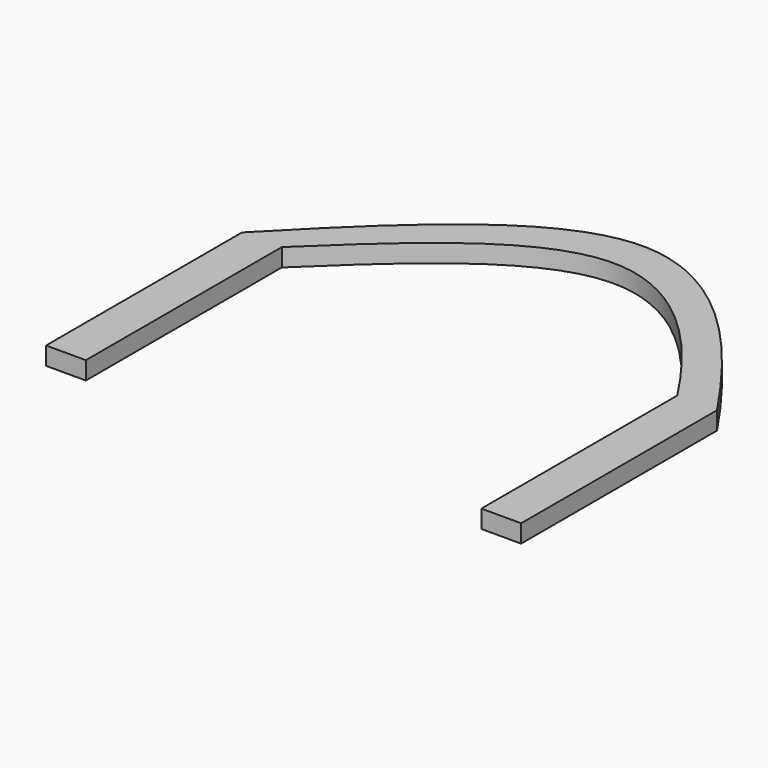
from build123d import *

# Parameters (mm, degrees)
F0_W     = 2.8170784935
F0_H     = 17.335870536
F1_DEPTH = 1.27


with BuildPart() as f1:
    # F0 (on Top) → F1 (new body)
    with BuildSketch(Plane.XY):
        with BuildLine():
            add(Edge.make_bspline(
                [(-18.4055902064, 19.893027842), (-11.9037980306, 26.5804845839), (0.0861304806, 38.1581188782), (10.5268220624, 26.9462221751), (15.3993554413, 19.676329568)],
                knots=[0, 0, 0, 0, 0.5134396008, 1, 1, 1, 1], degree=3))
            Line((-18.4055902064, 19.893027842), (-15.5885117128, 19.893027842))
            add(Edge.make_bspline(
                [(-15.5885117128, 19.893027842), (-10.0181021025, 25.2769867087), (0.0240884908, 34.2570794423), (8.7194553893, 25.6482853161), (12.5822769478, 19.676329568)],
                knots=[0, 0, 0, 0, 0.5167040571, 1, 1, 1, 1], degree=3))
            Line((12.5822769478, 19.676329568), (15.3993554413, 19.676329568))
        make_face()
        with Locations((-16.9970509596, 11.225092574)):
            Rectangle(F0_W, F0_H)
        with Locations((13.9908161946, 11.0083943)):
            Rectangle(F0_W, F0_H)
    extrude(amount=F1_DEPTH)


solid = f1.part
